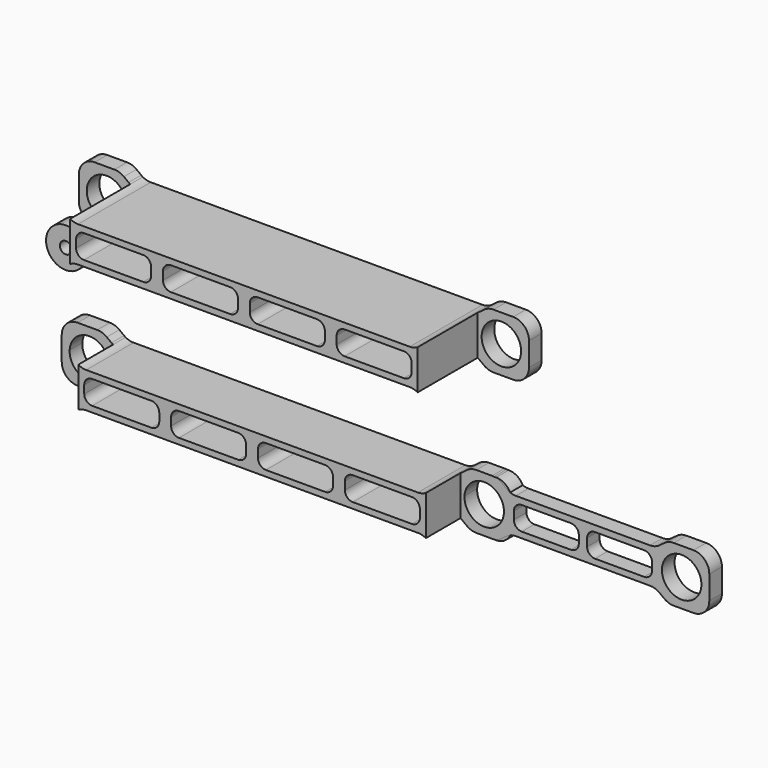
from build123d import *

# Parameters (mm, degrees)
F0_R     = 5
F1_DEPTH = 4
F2_R     = 5
F2_R_2   = 1.5
F3_DEPTH = 4
F4_R     = 5
F5_DEPTH = 4
F6_DEPTH = 15
F7_R     = 5
F8_DEPTH = 4
F9_DEPTH = 23


with BuildPart() as f1:
    # F0 (on Front) → F1 (new body)
    with BuildSketch(Plane.XZ):
        with BuildLine():
            Line((-57, 0), (-57, -3))
            ThreePointArc((-57, -3), (-55.8284271247, -5.8284271247), (-53, -7))
            Line((-53, -7), (-48, -7))
            ThreePointArc((-48, -7), (-46.7350889359, -6.7947331922), (-45.6, -6.2))
            Line((-45.6, -6.2), (-44.4, -5.3))
            ThreePointArc((-44.4, -5.3), (-43.2649110641, -4.7052668078), (-42, -4.5))
            Line((-42, -4.5), (0, -4.5))
            Line((0, -4.5), (42, -4.5))
            ThreePointArc((42, -4.5), (43.2649110641, -4.7052668078), (44.4, -5.3))
            Line((44.4, -5.3), (45.6, -6.2))
            ThreePointArc((45.6, -6.2), (46.7350889359, -6.7947331922), (48, -7))
            Line((48, -7), (53, -7))
            ThreePointArc((53, -7), (55.8284271247, -5.8284271247), (57, -3))
            Line((57, -3), (57, 0))
            Line((57, 0), (57, 3))
            ThreePointArc((57, 3), (55.8284271247, 5.8284271247), (53, 7))
            Line((53, 7), (48, 7))
            ThreePointArc((48, 7), (46.7350889359, 6.7947331922), (45.6, 6.2))
            Line((45.6, 6.2), (44.4, 5.3))
            ThreePointArc((44.4, 5.3), (43.2649110641, 4.7052668078), (42, 4.5))
            Line((42, 4.5), (0, 4.5))
            Line((0, 4.5), (-42, 4.5))
            ThreePointArc((-42, 4.5), (-43.2649110641, 4.7052668078), (-44.4, 5.3))
            Line((-44.4, 5.3), (-45.6, 6.2))
            ThreePointArc((-45.6, 6.2), (-46.7350889359, 6.7947331922), (-48, 7))
            Line((-48, 7), (-53, 7))
            ThreePointArc((-53, 7), (-55.8284271247, 5.8284271247), (-57, 3))
            Line((-57, 3), (-57, 0))
        make_face()
        with Locations((-50, 0)):
            Circle(F0_R, mode=Mode.SUBTRACT)
        with BuildLine():
            Line((-25.5, -3), (-40.5, -3))
            ThreePointArc((-40.5, -3), (-41.9142135624, -2.4142135624), (-42.5, -1))
            Line((-42.5, -1), (-42.5, 0))
            Line((-42.5, 0), (-42.5, 1))
            ThreePointArc((-42.5, 1), (-41.9142135624, 2.4142135624), (-40.5, 3))
            Line((-40.5, 3), (-25.5, 3))
            ThreePointArc((-25.5, 3), (-24.0857864376, 2.4142135624), (-23.5, 1))
            Line((-23.5, 1), (-23.5, 0))
            Line((-23.5, 0), (-23.5, -1))
            ThreePointArc((-23.5, -1), (-24.0857864376, -2.4142135624), (-25.5, -3))
        make_face(mode=Mode.SUBTRACT)
        with BuildLine():
            Line((-3.5, -3), (-18.5, -3))
            ThreePointArc((-18.5, -3), (-19.9142135624, -2.4142135624), (-20.5, -1))
            Line((-20.5, -1), (-20.5, 0))
            Line((-20.5, 0), (-20.5, 1))
            ThreePointArc((-20.5, 1), (-19.9142135624, 2.4142135624), (-18.5, 3))
            Line((-18.5, 3), (-3.5, 3))
            ThreePointArc((-3.5, 3), (-2.0857864376, 2.4142135624), (-1.5, 1))
            Line((-1.5, 1), (-1.5, 0))
            Line((-1.5, 0), (-1.5, -1))
            ThreePointArc((-1.5, -1), (-2.0857864376, -2.4142135624), (-3.5, -3))
        make_face(mode=Mode.SUBTRACT)
        with BuildLine():
            Line((1.5, 0), (1.5, 1))
            ThreePointArc((1.5, 1), (2.0857864376, 2.4142135624), (3.5, 3))
            Line((3.5, 3), (18.5, 3))
            ThreePointArc((18.5, 3), (19.9142135624, 2.4142135624), (20.5, 1))
            Line((20.5, 1), (20.5, 0))
            Line((20.5, 0), (20.5, -1))
            ThreePointArc((20.5, -1), (19.9142135624, -2.4142135624), (18.5, -3))
            Line((18.5, -3), (3.5, -3))
            ThreePointArc((3.5, -3), (2.0857864376, -2.4142135624), (1.5, -1))
            Line((1.5, -1), (1.5, 0))
        make_face(mode=Mode.SUBTRACT)
        with BuildLine():
            Line((23.5, 0), (23.5, 1))
            ThreePointArc((23.5, 1), (24.0857864376, 2.4142135624), (25.5, 3))
            Line((25.5, 3), (40.5, 3))
            ThreePointArc((40.5, 3), (41.9142135624, 2.4142135624), (42.5, 1))
            Line((42.5, 1), (42.5, 0))
            Line((42.5, 0), (42.5, -1))
            ThreePointArc((42.5, -1), (41.9142135624, -2.4142135624), (40.5, -3))
            Line((40.5, -3), (25.5, -3))
            ThreePointArc((25.5, -3), (24.0857864376, -2.4142135624), (23.5, -1))
            Line((23.5, -1), (23.5, 0))
        make_face(mode=Mode.SUBTRACT)
        with Locations((50, 0)):
            Circle(F0_R, mode=Mode.SUBTRACT)
    extrude(amount=F1_DEPTH)


with BuildPart() as f3:
    # F2 (on Front) → F3 (new body)
    with BuildSketch(Plane.XZ):
        with Locations((-55.9731014073, 22.7799583226)):
            Circle(F2_R)
        with Locations((-55.9731014073, 22.7799583226)):
            Circle(F2_R_2, mode=Mode.SUBTRACT)
    extrude(amount=F3_DEPTH)


with BuildPart() as f5:
    # F4 (on Front) → F5 (new body)
    with BuildSketch(Plane.XZ):
        with BuildLine():
            Line((-57, 0.0340198361), (-57, -2.9659801639))
            ThreePointArc((-57, -2.9659801639), (-55.8284271247, -5.7944072887), (-53, -6.9659801639))
            Line((-53, -6.9659801639), (-48, -6.9659801639))
            ThreePointArc((-48, -6.9659801639), (-46.7350889359, -6.7607133561), (-45.6, -6.1659801639))
            Line((-45.6, -6.1659801639), (-44.4, -5.2659801639))
            ThreePointArc((-44.4, -5.2659801639), (-44.203959486, -5.1279324434), (-44, -5.0018785488))
            Line((-44, -5.0018785488), (-44, 5.069918221))
            ThreePointArc((-44, 5.069918221), (-44.203959486, 5.1959721156), (-44.4, 5.3340198361))
            Line((-44.4, 5.3340198361), (-45.6, 6.2340198361))
            ThreePointArc((-45.6, 6.2340198361), (-46.7350889359, 6.8287530283), (-48, 7.0340198361))
            Line((-48, 7.0340198361), (-53, 7.0340198361))
            ThreePointArc((-53, 7.0340198361), (-55.8284271247, 5.8624469608), (-57, 3.0340198361))
            Line((-57, 3.0340198361), (-57, 0.0340198361))
        make_face()
        with Locations((-50, 0.0340198361)):
            Circle(F4_R, mode=Mode.SUBTRACT)
        with BuildLine():
            Line((-44, 5.069918221), (-44, -5.0018785488))
            ThreePointArc((-44, -5.0018785488), (-43.0352761804, -4.6022768588), (-42, -4.4659801639))
            Line((-42, -4.4659801639), (0, -4.4659801639))
            Line((0, -4.4659801639), (42, -4.4659801639))
            ThreePointArc((42, -4.4659801639), (43.0352761804, -4.6022768588), (44, -5.0018785488))
            Line((44, -5.0018785488), (44, 5.069918221))
            ThreePointArc((44, 5.069918221), (43.0352761804, 4.6703165309), (42, 4.5340198361))
            Line((42, 4.5340198361), (0, 4.5340198361))
            Line((0, 4.5340198361), (-42, 4.5340198361))
            ThreePointArc((-42, 4.5340198361), (-43.0352761804, 4.6703165309), (-44, 5.069918221))
        make_face()
        with BuildLine():
            Line((-25.5, -2.9659801639), (-40.5, -2.9659801639))
            ThreePointArc((-40.5, -2.9659801639), (-41.9142135624, -2.3801937263), (-42.5, -0.9659801639))
            Line((-42.5, -0.9659801639), (-42.5, 0.0340198361))
            Line((-42.5, 0.0340198361), (-42.5, 1.0340198361))
            ThreePointArc((-42.5, 1.0340198361), (-41.9142135624, 2.4482333985), (-40.5, 3.0340198361))
            Line((-40.5, 3.0340198361), (-25.5, 3.0340198361))
            ThreePointArc((-25.5, 3.0340198361), (-24.0857864376, 2.4482333985), (-23.5, 1.0340198361))
            Line((-23.5, 1.0340198361), (-23.5, 0.0340198361))
            Line((-23.5, 0.0340198361), (-23.5, -0.9659801639))
            ThreePointArc((-23.5, -0.9659801639), (-24.0857864376, -2.3801937263), (-25.5, -2.9659801639))
        make_face(mode=Mode.SUBTRACT)
        with BuildLine():
            Line((-3.5, -2.9659801639), (-18.5, -2.9659801639))
            ThreePointArc((-18.5, -2.9659801639), (-19.9142135624, -2.3801937263), (-20.5, -0.9659801639))
            Line((-20.5, -0.9659801639), (-20.5, 0.0340198361))
            Line((-20.5, 0.0340198361), (-20.5, 1.0340198361))
            ThreePointArc((-20.5, 1.0340198361), (-19.9142135624, 2.4482333985), (-18.5, 3.0340198361))
            Line((-18.5, 3.0340198361), (-3.5, 3.0340198361))
            ThreePointArc((-3.5, 3.0340198361), (-2.0857864376, 2.4482333985), (-1.5, 1.0340198361))
            Line((-1.5, 1.0340198361), (-1.5, 0.0340198361))
            Line((-1.5, 0.0340198361), (-1.5, -0.9659801639))
            ThreePointArc((-1.5, -0.9659801639), (-2.0857864376, -2.3801937263), (-3.5, -2.9659801639))
        make_face(mode=Mode.SUBTRACT)
        with BuildLine():
            Line((1.5, 0.0340198361), (1.5, 1.0340198361))
            ThreePointArc((1.5, 1.0340198361), (2.0857864376, 2.4482333985), (3.5, 3.0340198361))
            Line((3.5, 3.0340198361), (18.5, 3.0340198361))
            ThreePointArc((18.5, 3.0340198361), (19.9142135624, 2.4482333985), (20.5, 1.0340198361))
            Line((20.5, 1.0340198361), (20.5, 0.0340198361))
            Line((20.5, 0.0340198361), (20.5, -0.9659801639))
            ThreePointArc((20.5, -0.9659801639), (19.9142135624, -2.3801937263), (18.5, -2.9659801639))
            Line((18.5, -2.9659801639), (3.5, -2.9659801639))
            ThreePointArc((3.5, -2.9659801639), (2.0857864376, -2.3801937263), (1.5, -0.9659801639))
            Line((1.5, -0.9659801639), (1.5, 0.0340198361))
        make_face(mode=Mode.SUBTRACT)
        with BuildLine():
            Line((23.5, 0.0340198361), (23.5, 1.0340198361))
            ThreePointArc((23.5, 1.0340198361), (24.0857864376, 2.4482333985), (25.5, 3.0340198361))
            Line((25.5, 3.0340198361), (40.5, 3.0340198361))
            ThreePointArc((40.5, 3.0340198361), (41.9142135624, 2.4482333985), (42.5, 1.0340198361))
            Line((42.5, 1.0340198361), (42.5, 0.0340198361))
            Line((42.5, 0.0340198361), (42.5, -0.9659801639))
            ThreePointArc((42.5, -0.9659801639), (41.9142135624, -2.3801937263), (40.5, -2.9659801639))
            Line((40.5, -2.9659801639), (25.5, -2.9659801639))
            ThreePointArc((25.5, -2.9659801639), (24.0857864376, -2.3801937263), (23.5, -0.9659801639))
            Line((23.5, -0.9659801639), (23.5, 0.0340198361))
        make_face(mode=Mode.SUBTRACT)
        with BuildLine():
            Line((44, 5.069918221), (44, -5.0018785488))
            ThreePointArc((44, -5.0018785488), (44.203959486, -5.1279324434), (44.4, -5.2659801639))
            Line((44.4, -5.2659801639), (45.6, -6.1659801639))
            ThreePointArc((45.6, -6.1659801639), (46.7350889359, -6.7607133561), (48, -6.9659801639))
            Line((48, -6.9659801639), (50, -6.9659801639))
            Line((50, -6.9659801639), (52, -6.9659801639))
            ThreePointArc((52, -6.9659801639), (53.2649110641, -6.7607133561), (54.4, -6.1659801639))
            Line((54.4, -6.1659801639), (55.6, -5.2659801639))
            ThreePointArc((55.6, -5.2659801639), (56.7350889359, -4.6712469717), (58, -4.4659801639))
            Line((58, -4.4659801639), (92, -4.4659801639))
            ThreePointArc((92, -4.4659801639), (93.2649110641, -4.6712469717), (94.4, -5.2659801639))
            Line((94.4, -5.2659801639), (95.6, -6.1659801639))
            ThreePointArc((95.6, -6.1659801639), (96.7350889359, -6.7607133561), (98, -6.9659801639))
            Line((98, -6.9659801639), (103, -6.9659801639))
            ThreePointArc((103, -6.9659801639), (105.8284271247, -5.7944072887), (107, -2.9659801639))
            Line((107, -2.9659801639), (107, 0.0340198361))
            Line((107, 0.0340198361), (107, 3.0340198361))
            ThreePointArc((107, 3.0340198361), (105.8284271247, 5.8624469608), (103, 7.0340198361))
            Line((103, 7.0340198361), (98, 7.0340198361))
            ThreePointArc((98, 7.0340198361), (96.7350889359, 6.8287530283), (95.6, 6.2340198361))
            Line((95.6, 6.2340198361), (94.4, 5.3340198361))
            ThreePointArc((94.4, 5.3340198361), (93.2649110641, 4.7392866439), (92, 4.5340198361))
            Line((92, 4.5340198361), (58, 4.5340198361))
            ThreePointArc((58, 4.5340198361), (56.7350889359, 4.7392866439), (55.6, 5.3340198361))
            Line((55.6, 5.3340198361), (54.4, 6.2340198361))
            ThreePointArc((54.4, 6.2340198361), (53.2649110641, 6.8287530283), (52, 7.0340198361))
            Line((52, 7.0340198361), (50, 7.0340198361))
            Line((50, 7.0340198361), (48, 7.0340198361))
            ThreePointArc((48, 7.0340198361), (46.7350889359, 6.8287530283), (45.6, 6.2340198361))
            Line((45.6, 6.2340198361), (44.4, 5.3340198361))
            ThreePointArc((44.4, 5.3340198361), (44.203959486, 5.1959721156), (44, 5.069918221))
        make_face()
        with BuildLine():
            ThreePointArc((73.9527094364, -0.9659801639), (73.3669229988, -2.3801937263), (71.9527094364, -2.9659801639))
            Line((71.9527094364, -2.9659801639), (59.5, -2.9659801639))
            ThreePointArc((59.5, -2.9659801639), (58.0857864376, -2.3801937263), (57.5, -0.9659801639))
            Line((57.5, -0.9659801639), (57.5, 0.9659801639))
            ThreePointArc((57.5, 0.9659801639), (58.0857864376, 2.3801937263), (59.5, 2.9659801639))
            Line((59.5, 2.9659801639), (71.9527094364, 2.9659801639))
            ThreePointArc((71.9527094364, 2.9659801639), (73.3669229988, 2.3801937263), (73.9527094364, 0.9659801639))
            Line((73.9527094364, 0.9659801639), (73.9527094364, -0.9659801639))
        make_face(mode=Mode.SUBTRACT)
        with BuildLine():
            Line((78.0472905636, 2.9659801639), (90.5, 2.9659801639))
            ThreePointArc((90.5, 2.9659801639), (91.9142135624, 2.3801937263), (92.5, 0.9659801639))
            Line((92.5, 0.9659801639), (92.5, -0.9659801639))
            ThreePointArc((92.5, -0.9659801639), (91.9142135624, -2.3801937263), (90.5, -2.9659801639))
            Line((90.5, -2.9659801639), (78.0472905636, -2.9659801639))
            ThreePointArc((78.0472905636, -2.9659801639), (76.6330770012, -2.3801937263), (76.0472905636, -0.9659801639))
            Line((76.0472905636, -0.9659801639), (76.0472905636, 0.9659801639))
            ThreePointArc((76.0472905636, 0.9659801639), (76.6330770012, 2.3801937263), (78.0472905636, 2.9659801639))
        make_face(mode=Mode.SUBTRACT)
        with Locations((50, 0.0340198361)):
            Circle(F4_R, mode=Mode.SUBTRACT)
        with Locations((100, 0.0340198361)):
            Circle(F4_R, mode=Mode.SUBTRACT)
    extrude(amount=F5_DEPTH)

    # F4 (on Front) → F6 (join)
    with BuildSketch(Plane.XZ):
        with BuildLine():
            Line((-44, 5.069918221), (-44, -5.0018785488))
            ThreePointArc((-44, -5.0018785488), (-43.0352761804, -4.6022768588), (-42, -4.4659801639))
            Line((-42, -4.4659801639), (0, -4.4659801639))
            Line((0, -4.4659801639), (42, -4.4659801639))
            ThreePointArc((42, -4.4659801639), (43.0352761804, -4.6022768588), (44, -5.0018785488))
            Line((44, -5.0018785488), (44, 5.069918221))
            ThreePointArc((44, 5.069918221), (43.0352761804, 4.6703165309), (42, 4.5340198361))
            Line((42, 4.5340198361), (0, 4.5340198361))
            Line((0, 4.5340198361), (-42, 4.5340198361))
            ThreePointArc((-42, 4.5340198361), (-43.0352761804, 4.6703165309), (-44, 5.069918221))
        make_face()
        with BuildLine():
            Line((-25.5, -2.9659801639), (-40.5, -2.9659801639))
            ThreePointArc((-40.5, -2.9659801639), (-41.9142135624, -2.3801937263), (-42.5, -0.9659801639))
            Line((-42.5, -0.9659801639), (-42.5, 0.0340198361))
            Line((-42.5, 0.0340198361), (-42.5, 1.0340198361))
            ThreePointArc((-42.5, 1.0340198361), (-41.9142135624, 2.4482333985), (-40.5, 3.0340198361))
            Line((-40.5, 3.0340198361), (-25.5, 3.0340198361))
            ThreePointArc((-25.5, 3.0340198361), (-24.0857864376, 2.4482333985), (-23.5, 1.0340198361))
            Line((-23.5, 1.0340198361), (-23.5, 0.0340198361))
            Line((-23.5, 0.0340198361), (-23.5, -0.9659801639))
            ThreePointArc((-23.5, -0.9659801639), (-24.0857864376, -2.3801937263), (-25.5, -2.9659801639))
        make_face(mode=Mode.SUBTRACT)
        with BuildLine():
            Line((-3.5, -2.9659801639), (-18.5, -2.9659801639))
            ThreePointArc((-18.5, -2.9659801639), (-19.9142135624, -2.3801937263), (-20.5, -0.9659801639))
            Line((-20.5, -0.9659801639), (-20.5, 0.0340198361))
            Line((-20.5, 0.0340198361), (-20.5, 1.0340198361))
            ThreePointArc((-20.5, 1.0340198361), (-19.9142135624, 2.4482333985), (-18.5, 3.0340198361))
            Line((-18.5, 3.0340198361), (-3.5, 3.0340198361))
            ThreePointArc((-3.5, 3.0340198361), (-2.0857864376, 2.4482333985), (-1.5, 1.0340198361))
            Line((-1.5, 1.0340198361), (-1.5, 0.0340198361))
            Line((-1.5, 0.0340198361), (-1.5, -0.9659801639))
            ThreePointArc((-1.5, -0.9659801639), (-2.0857864376, -2.3801937263), (-3.5, -2.9659801639))
        make_face(mode=Mode.SUBTRACT)
        with BuildLine():
            Line((1.5, 0.0340198361), (1.5, 1.0340198361))
            ThreePointArc((1.5, 1.0340198361), (2.0857864376, 2.4482333985), (3.5, 3.0340198361))
            Line((3.5, 3.0340198361), (18.5, 3.0340198361))
            ThreePointArc((18.5, 3.0340198361), (19.9142135624, 2.4482333985), (20.5, 1.0340198361))
            Line((20.5, 1.0340198361), (20.5, 0.0340198361))
            Line((20.5, 0.0340198361), (20.5, -0.9659801639))
            ThreePointArc((20.5, -0.9659801639), (19.9142135624, -2.3801937263), (18.5, -2.9659801639))
            Line((18.5, -2.9659801639), (3.5, -2.9659801639))
            ThreePointArc((3.5, -2.9659801639), (2.0857864376, -2.3801937263), (1.5, -0.9659801639))
            Line((1.5, -0.9659801639), (1.5, 0.0340198361))
        make_face(mode=Mode.SUBTRACT)
        with BuildLine():
            Line((23.5, 0.0340198361), (23.5, 1.0340198361))
            ThreePointArc((23.5, 1.0340198361), (24.0857864376, 2.4482333985), (25.5, 3.0340198361))
            Line((25.5, 3.0340198361), (40.5, 3.0340198361))
            ThreePointArc((40.5, 3.0340198361), (41.9142135624, 2.4482333985), (42.5, 1.0340198361))
            Line((42.5, 1.0340198361), (42.5, 0.0340198361))
            Line((42.5, 0.0340198361), (42.5, -0.9659801639))
            ThreePointArc((42.5, -0.9659801639), (41.9142135624, -2.3801937263), (40.5, -2.9659801639))
            Line((40.5, -2.9659801639), (25.5, -2.9659801639))
            ThreePointArc((25.5, -2.9659801639), (24.0857864376, -2.3801937263), (23.5, -0.9659801639))
            Line((23.5, -0.9659801639), (23.5, 0.0340198361))
        make_face(mode=Mode.SUBTRACT)
    extrude(amount=F6_DEPTH)


with BuildPart() as f8:
    # F7 (on Front) → F8 (new body)
    with BuildSketch(Plane.XZ):
        with BuildLine():
            Line((-52.660523884, 37.199717015), (-52.660523884, 34.199717015))
            ThreePointArc((-52.660523884, 34.199717015), (-51.4889510087, 31.3712898903), (-48.660523884, 30.199717015))
            Line((-48.660523884, 30.199717015), (-43.660523884, 30.199717015))
            ThreePointArc((-43.660523884, 30.199717015), (-42.3956128199, 30.4049838228), (-41.260523884, 30.999717015))
            Line((-41.260523884, 30.999717015), (-40.060523884, 31.899717015))
            ThreePointArc((-40.060523884, 31.899717015), (-39.86448337, 32.0377647355), (-39.660523884, 32.1638186302))
            Line((-39.660523884, 32.1638186302), (-39.660523884, 42.2356153999))
            ThreePointArc((-39.660523884, 42.2356153999), (-39.86448337, 42.3616692945), (-40.060523884, 42.499717015))
            Line((-40.060523884, 42.499717015), (-41.260523884, 43.399717015))
            ThreePointArc((-41.260523884, 43.399717015), (-42.3956128199, 43.9944502072), (-43.660523884, 44.199717015))
            Line((-43.660523884, 44.199717015), (-48.660523884, 44.199717015))
            ThreePointArc((-48.660523884, 44.199717015), (-51.4889510087, 43.0281441398), (-52.660523884, 40.199717015))
            Line((-52.660523884, 40.199717015), (-52.660523884, 37.199717015))
        make_face()
        with Locations((-45.660523884, 37.199717015)):
            Circle(F7_R, mode=Mode.SUBTRACT)
        with BuildLine():
            Line((48.339476116, 42.2356153999), (48.339476116, 32.1638186302))
            ThreePointArc((48.339476116, 32.1638186302), (48.543435602, 32.0377647355), (48.739476116, 31.899717015))
            Line((48.739476116, 31.899717015), (49.939476116, 30.999717015))
            ThreePointArc((49.939476116, 30.999717015), (51.0745650519, 30.4049838228), (52.339476116, 30.199717015))
            Line((52.339476116, 30.199717015), (57.339476116, 30.199717015))
            ThreePointArc((57.339476116, 30.199717015), (60.1679032407, 31.3712898903), (61.339476116, 34.199717015))
            Line((61.339476116, 34.199717015), (61.339476116, 37.199717015))
            Line((61.339476116, 37.199717015), (61.339476116, 40.199717015))
            ThreePointArc((61.339476116, 40.199717015), (60.1679032407, 43.0281441398), (57.339476116, 44.199717015))
            Line((57.339476116, 44.199717015), (52.339476116, 44.199717015))
            ThreePointArc((52.339476116, 44.199717015), (51.0745650519, 43.9944502072), (49.939476116, 43.399717015))
            Line((49.939476116, 43.399717015), (48.739476116, 42.499717015))
            ThreePointArc((48.739476116, 42.499717015), (48.543435602, 42.3616692945), (48.339476116, 42.2356153999))
        make_face()
        with Locations((54.339476116, 37.199717015)):
            Circle(F7_R, mode=Mode.SUBTRACT)
        with BuildLine():
            Line((-39.660523884, 42.2356153999), (-39.660523884, 32.1638186302))
            ThreePointArc((-39.660523884, 32.1638186302), (-38.6958000644, 32.5634203202), (-37.660523884, 32.699717015))
            Line((-37.660523884, 32.699717015), (4.339476116, 32.699717015))
            Line((4.339476116, 32.699717015), (46.339476116, 32.699717015))
            ThreePointArc((46.339476116, 32.699717015), (47.3747522964, 32.5634203202), (48.339476116, 32.1638186302))
            Line((48.339476116, 32.1638186302), (48.339476116, 42.2356153999))
            ThreePointArc((48.339476116, 42.2356153999), (47.3747522964, 41.8360137099), (46.339476116, 41.699717015))
            Line((46.339476116, 41.699717015), (4.339476116, 41.699717015))
            Line((4.339476116, 41.699717015), (-37.660523884, 41.699717015))
            ThreePointArc((-37.660523884, 41.699717015), (-38.6958000644, 41.8360137099), (-39.660523884, 42.2356153999))
        make_face()
        with BuildLine():
            Line((0.839476116, 34.199717015), (-14.160523884, 34.199717015))
            ThreePointArc((-14.160523884, 34.199717015), (-15.5747374464, 34.7855034527), (-16.160523884, 36.199717015))
            Line((-16.160523884, 36.199717015), (-16.160523884, 37.199717015))
            Line((-16.160523884, 37.199717015), (-16.160523884, 38.199717015))
            ThreePointArc((-16.160523884, 38.199717015), (-15.5747374464, 39.6139305774), (-14.160523884, 40.199717015))
            Line((-14.160523884, 40.199717015), (0.839476116, 40.199717015))
            ThreePointArc((0.839476116, 40.199717015), (2.2536896784, 39.6139305774), (2.839476116, 38.199717015))
            Line((2.839476116, 38.199717015), (2.839476116, 37.199717015))
            Line((2.839476116, 37.199717015), (2.839476116, 36.199717015))
            ThreePointArc((2.839476116, 36.199717015), (2.2536896784, 34.7855034527), (0.839476116, 34.199717015))
        make_face(mode=Mode.SUBTRACT)
        with BuildLine():
            Line((-21.160523884, 34.199717015), (-36.160523884, 34.199717015))
            ThreePointArc((-36.160523884, 34.199717015), (-37.5747374464, 34.7855034527), (-38.160523884, 36.199717015))
            Line((-38.160523884, 36.199717015), (-38.160523884, 37.199717015))
            Line((-38.160523884, 37.199717015), (-38.160523884, 38.199717015))
            ThreePointArc((-38.160523884, 38.199717015), (-37.5747374464, 39.6139305774), (-36.160523884, 40.199717015))
            Line((-36.160523884, 40.199717015), (-21.160523884, 40.199717015))
            ThreePointArc((-21.160523884, 40.199717015), (-19.7463103216, 39.6139305774), (-19.160523884, 38.199717015))
            Line((-19.160523884, 38.199717015), (-19.160523884, 37.199717015))
            Line((-19.160523884, 37.199717015), (-19.160523884, 36.199717015))
            ThreePointArc((-19.160523884, 36.199717015), (-19.7463103216, 34.7855034527), (-21.160523884, 34.199717015))
        make_face(mode=Mode.SUBTRACT)
        with BuildLine():
            Line((5.839476116, 37.199717015), (5.839476116, 38.199717015))
            ThreePointArc((5.839476116, 38.199717015), (6.4252625536, 39.6139305774), (7.839476116, 40.199717015))
            Line((7.839476116, 40.199717015), (22.839476116, 40.199717015))
            ThreePointArc((22.839476116, 40.199717015), (24.2536896784, 39.6139305774), (24.839476116, 38.199717015))
            Line((24.839476116, 38.199717015), (24.839476116, 37.199717015))
            Line((24.839476116, 37.199717015), (24.839476116, 36.199717015))
            ThreePointArc((24.839476116, 36.199717015), (24.2536896784, 34.7855034527), (22.839476116, 34.199717015))
            Line((22.839476116, 34.199717015), (7.839476116, 34.199717015))
            ThreePointArc((7.839476116, 34.199717015), (6.4252625536, 34.7855034527), (5.839476116, 36.199717015))
            Line((5.839476116, 36.199717015), (5.839476116, 37.199717015))
        make_face(mode=Mode.SUBTRACT)
        with BuildLine():
            Line((27.839476116, 37.199717015), (27.839476116, 38.199717015))
            ThreePointArc((27.839476116, 38.199717015), (28.4252625536, 39.6139305774), (29.839476116, 40.199717015))
            Line((29.839476116, 40.199717015), (44.839476116, 40.199717015))
            ThreePointArc((44.839476116, 40.199717015), (46.2536896784, 39.6139305774), (46.839476116, 38.199717015))
            Line((46.839476116, 38.199717015), (46.839476116, 37.199717015))
            Line((46.839476116, 37.199717015), (46.839476116, 36.199717015))
            ThreePointArc((46.839476116, 36.199717015), (46.2536896784, 34.7855034527), (44.839476116, 34.199717015))
            Line((44.839476116, 34.199717015), (29.839476116, 34.199717015))
            ThreePointArc((29.839476116, 34.199717015), (28.4252625536, 34.7855034527), (27.839476116, 36.199717015))
            Line((27.839476116, 36.199717015), (27.839476116, 37.199717015))
        make_face(mode=Mode.SUBTRACT)
    extrude(amount=F8_DEPTH)

    # F7 (on Front) → F9 (join)
    with BuildSketch(Plane.XZ):
        with BuildLine():
            Line((-39.660523884, 42.2356153999), (-39.660523884, 32.1638186302))
            ThreePointArc((-39.660523884, 32.1638186302), (-38.6958000644, 32.5634203202), (-37.660523884, 32.699717015))
            Line((-37.660523884, 32.699717015), (4.339476116, 32.699717015))
            Line((4.339476116, 32.699717015), (46.339476116, 32.699717015))
            ThreePointArc((46.339476116, 32.699717015), (47.3747522964, 32.5634203202), (48.339476116, 32.1638186302))
            Line((48.339476116, 32.1638186302), (48.339476116, 42.2356153999))
            ThreePointArc((48.339476116, 42.2356153999), (47.3747522964, 41.8360137099), (46.339476116, 41.699717015))
            Line((46.339476116, 41.699717015), (4.339476116, 41.699717015))
            Line((4.339476116, 41.699717015), (-37.660523884, 41.699717015))
            ThreePointArc((-37.660523884, 41.699717015), (-38.6958000644, 41.8360137099), (-39.660523884, 42.2356153999))
        make_face()
        with BuildLine():
            Line((0.839476116, 34.199717015), (-14.160523884, 34.199717015))
            ThreePointArc((-14.160523884, 34.199717015), (-15.5747374464, 34.7855034527), (-16.160523884, 36.199717015))
            Line((-16.160523884, 36.199717015), (-16.160523884, 37.199717015))
            Line((-16.160523884, 37.199717015), (-16.160523884, 38.199717015))
            ThreePointArc((-16.160523884, 38.199717015), (-15.5747374464, 39.6139305774), (-14.160523884, 40.199717015))
            Line((-14.160523884, 40.199717015), (0.839476116, 40.199717015))
            ThreePointArc((0.839476116, 40.199717015), (2.2536896784, 39.6139305774), (2.839476116, 38.199717015))
            Line((2.839476116, 38.199717015), (2.839476116, 37.199717015))
            Line((2.839476116, 37.199717015), (2.839476116, 36.199717015))
            ThreePointArc((2.839476116, 36.199717015), (2.2536896784, 34.7855034527), (0.839476116, 34.199717015))
        make_face(mode=Mode.SUBTRACT)
        with BuildLine():
            Line((-21.160523884, 34.199717015), (-36.160523884, 34.199717015))
            ThreePointArc((-36.160523884, 34.199717015), (-37.5747374464, 34.7855034527), (-38.160523884, 36.199717015))
            Line((-38.160523884, 36.199717015), (-38.160523884, 37.199717015))
            Line((-38.160523884, 37.199717015), (-38.160523884, 38.199717015))
            ThreePointArc((-38.160523884, 38.199717015), (-37.5747374464, 39.6139305774), (-36.160523884, 40.199717015))
            Line((-36.160523884, 40.199717015), (-21.160523884, 40.199717015))
            ThreePointArc((-21.160523884, 40.199717015), (-19.7463103216, 39.6139305774), (-19.160523884, 38.199717015))
            Line((-19.160523884, 38.199717015), (-19.160523884, 37.199717015))
            Line((-19.160523884, 37.199717015), (-19.160523884, 36.199717015))
            ThreePointArc((-19.160523884, 36.199717015), (-19.7463103216, 34.7855034527), (-21.160523884, 34.199717015))
        make_face(mode=Mode.SUBTRACT)
        with BuildLine():
            Line((5.839476116, 37.199717015), (5.839476116, 38.199717015))
            ThreePointArc((5.839476116, 38.199717015), (6.4252625536, 39.6139305774), (7.839476116, 40.199717015))
            Line((7.839476116, 40.199717015), (22.839476116, 40.199717015))
            ThreePointArc((22.839476116, 40.199717015), (24.2536896784, 39.6139305774), (24.839476116, 38.199717015))
            Line((24.839476116, 38.199717015), (24.839476116, 37.199717015))
            Line((24.839476116, 37.199717015), (24.839476116, 36.199717015))
            ThreePointArc((24.839476116, 36.199717015), (24.2536896784, 34.7855034527), (22.839476116, 34.199717015))
            Line((22.839476116, 34.199717015), (7.839476116, 34.199717015))
            ThreePointArc((7.839476116, 34.199717015), (6.4252625536, 34.7855034527), (5.839476116, 36.199717015))
            Line((5.839476116, 36.199717015), (5.839476116, 37.199717015))
        make_face(mode=Mode.SUBTRACT)
        with BuildLine():
            Line((27.839476116, 37.199717015), (27.839476116, 38.199717015))
            ThreePointArc((27.839476116, 38.199717015), (28.4252625536, 39.6139305774), (29.839476116, 40.199717015))
            Line((29.839476116, 40.199717015), (44.839476116, 40.199717015))
            ThreePointArc((44.839476116, 40.199717015), (46.2536896784, 39.6139305774), (46.839476116, 38.199717015))
            Line((46.839476116, 38.199717015), (46.839476116, 37.199717015))
            Line((46.839476116, 37.199717015), (46.839476116, 36.199717015))
            ThreePointArc((46.839476116, 36.199717015), (46.2536896784, 34.7855034527), (44.839476116, 34.199717015))
            Line((44.839476116, 34.199717015), (29.839476116, 34.199717015))
            ThreePointArc((29.839476116, 34.199717015), (28.4252625536, 34.7855034527), (27.839476116, 36.199717015))
            Line((27.839476116, 36.199717015), (27.839476116, 37.199717015))
        make_face(mode=Mode.SUBTRACT)
    extrude(amount=F9_DEPTH)


solid = Compound([f1.part, f3.part, f5.part, f8.part])
